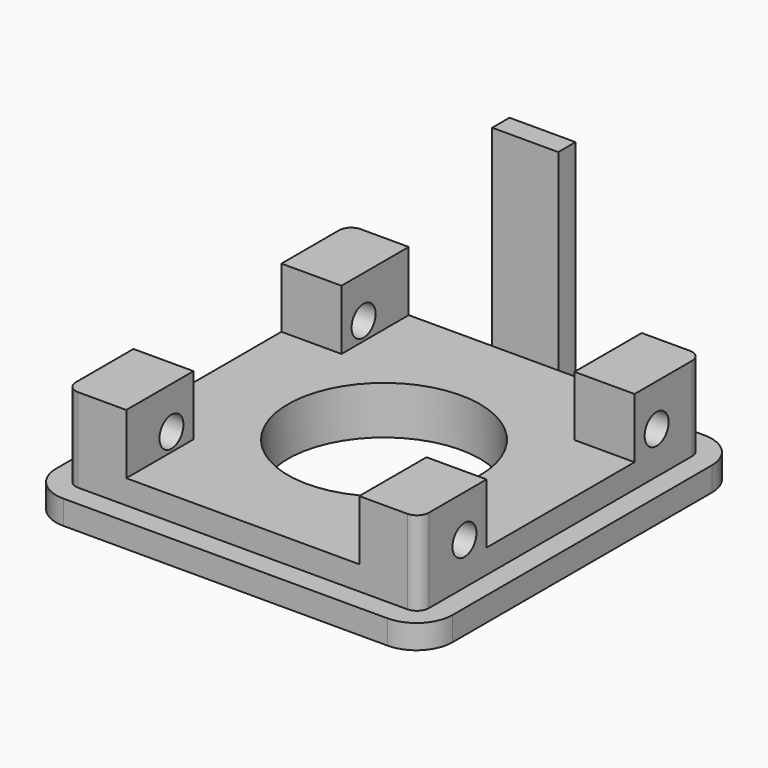
from build123d import *

# Parameters (mm, degrees)
F0_W      = 33
F0_H      = 33
F1_DEPTH  = 2
F2_W      = 29.4
F2_H      = 29.4
F3_DEPTH  = 2
F4_W      = 5
F4_H      = 7
F5_DEPTH  = 5
F6_R      = 8
F7_DEPTH  = 25
F8_R      = 1.25
F9_DEPTH  = 35
F10_R     = 1
F11_R     = 3
F12_W     = 5.5
F12_H     = 1.8
F13_DEPTH = 18


with BuildPart() as f1:
    # F0 (on Top) → F1 (new body)
    with BuildSketch(Plane.XY):
        with Locations((16.5, -16.5)):
            Rectangle(F0_W, F0_H)
    extrude(amount=F1_DEPTH)

    # F2 (on face) → F3 (join)
    with BuildSketch(Plane.XY.offset(2)):
        with Locations((16.5, -16.5)):
            Rectangle(F2_W, F2_H)
    extrude(amount=F3_DEPTH)

    # F4 (on face) → F5 (join)
    with BuildSketch(Plane.XY.offset(4)):
        with Locations((4.3, -5.3)):
            Rectangle(F4_W, F4_H)
        with Locations((4.3, -27.7)):
            Rectangle(F4_W, F4_H)
        with Locations((28.7, -5.3)):
            Rectangle(F4_W, F4_H)
        with Locations((28.7, -27.7)):
            Rectangle(F4_W, F4_H)
    extrude(amount=F5_DEPTH)

    # F6 (on face) → F7 (cut)
    with BuildSketch(Plane(origin=(0, 0, 0), x_dir=(1, 0, 0), z_dir=(0, 0, -1))):
        with Locations((16.5, 16.5)):
            Circle(F6_R)
    extrude(amount=-F7_DEPTH, mode=Mode.SUBTRACT)

    # F8 (on face) → F9 (cut)
    with BuildSketch(Plane.YZ.offset(31.2)):
        with Locations((-26.5, 5.5)):
            Circle(F8_R)
        with Locations((-6.5, 5.5)):
            Circle(F8_R)
    extrude(amount=-F9_DEPTH, mode=Mode.SUBTRACT)

    # F10
    f10_edges = [f1.edges().sort_by_distance(p)[0] for p in [
        (31.2, -1.8, 5.5),
        (1.8, -1.8, 5.5),
        (1.8, -31.2, 5.5),
        (31.2, -31.2, 5.5),
    ]]
    fillet(f10_edges, radius=F10_R)

    # F11
    f11_edges = [f1.edges().sort_by_distance(p)[0] for p in [
        (0, -33, 1),
        (33, -33, 1),
        (0, 0, 1),
        (33, 0, 1),
    ]]
    fillet(f11_edges, radius=F11_R)

    # F12 (on face) → F13 (join)
    with BuildSketch(Plane.XY.offset(2)):
        with Locations((16.5, -0.9)):
            Rectangle(F12_W, F12_H)
    extrude(amount=F13_DEPTH)


solid = f1.part
